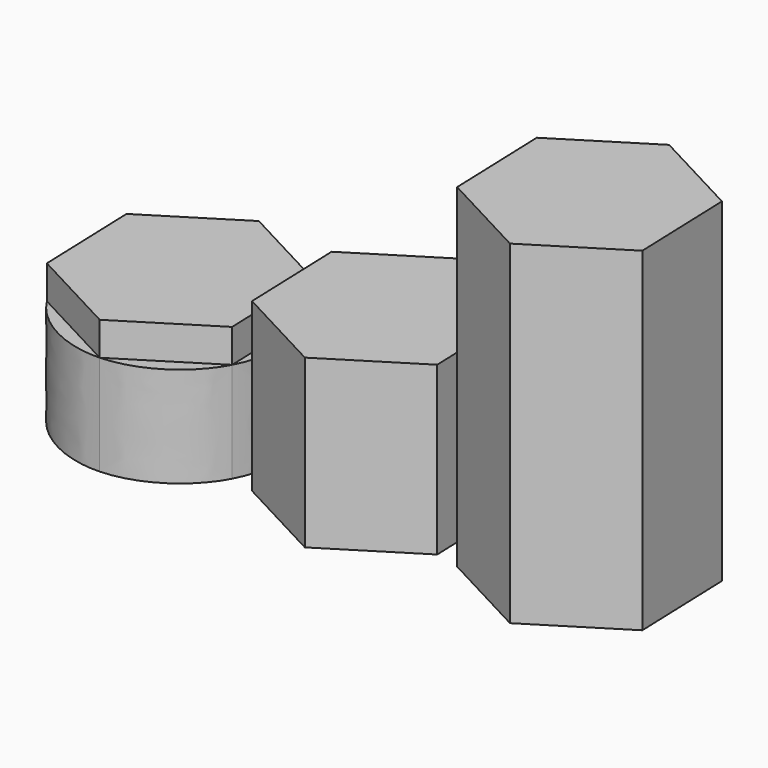
from build123d import *

# Parameters (mm, degrees)
F1_DEPTH = 30
F2_DEPTH = 40
F3_DEPTH = 50
F4_DEPTH = 100


with BuildPart() as f1:
    # F0 (on Top) → F1 (new body)
    with BuildSketch(Plane.XY):
        with BuildLine():
            add(Edge.make_bspline(
                [(-53.7493015469, 37.4896133902), (-58.8132375206, 27.9635762611), (-58.3773133936, 15.5138743345), (-52.6594912293, 6.3653585736)],
                knots=[0.6666666667, 0.6666666667, 0.6666666667, 0.6666666667, 0.8333333333, 0.8333333333, 0.8333333333, 0.8333333333], degree=3))
            Line((-52.6594912293, 6.3653585736), (-53.7493015469, 37.4896133902))
        make_face()
    extrude(amount=F1_DEPTH)


with BuildPart() as f1b:
    # F0 (on Top) → F1, piece 2 (new body)
    with BuildSketch(Plane.XY):
        with BuildLine():
            Line((-53.7493015469, 37.4896133902), (-27.3398113607, 53.9955442188))
            add(Edge.make_bspline(
                [(-27.3398113607, 53.9955442188), (-38.1215694987, 53.6180228507), (-48.6853655732, 47.0156505192), (-53.7493015469, 37.4896133902)],
                knots=[0.5, 0.5, 0.5, 0.5, 0.6666666667, 0.6666666667, 0.6666666667, 0.6666666667], degree=3))
        make_face()
    extrude(amount=F1_DEPTH)


with BuildPart() as f1c:
    # F0 (on Top) → F1, piece 3 (new body)
    with BuildSketch(Plane.XY):
        with BuildLine():
            Line((-27.3398113607, 53.9955442188), (0.1594891431, 39.3772202309))
            add(Edge.make_bspline(
                [(0.1594891431, 39.3772202309), (-5.5583330212, 48.5257359918), (-16.5580532227, 54.373065587), (-27.3398113607, 53.9955442188)],
                knots=[0.3333333333, 0.3333333333, 0.3333333333, 0.3333333333, 0.5, 0.5, 0.5, 0.5], degree=3))
        make_face()
    extrude(amount=F1_DEPTH)


with BuildPart() as f1d:
    # F0 (on Top) → F1, piece 4 (new body)
    with BuildSketch(Plane.XY):
        with BuildLine():
            Line((0.1594891431, 39.3772202309), (1.2492994608, 8.2529654143))
            add(Edge.make_bspline(
                [(1.2492994608, 8.2529654143), (6.3132354345, 17.7790025434), (5.8773113074, 30.22870447), (0.1594891431, 39.3772202309)],
                knots=[0.1666666667, 0.1666666667, 0.1666666667, 0.1666666667, 0.3333333333, 0.3333333333, 0.3333333333, 0.3333333333], degree=3))
        make_face()
    extrude(amount=F1_DEPTH)


with BuildPart() as f1e:
    # F0 (on Top) → F1, piece 5 (new body)
    with BuildSketch(Plane.XY):
        with BuildLine():
            add(Edge.make_bspline(
                [(-25.1601907254, -8.2529654143), (-14.3784325874, -7.8754440462), (-3.8146365129, -1.2730717147), (1.2492994608, 8.2529654143)],
                knots=[0, 0, 0, 0, 0.1666666667, 0.1666666667, 0.1666666667, 0.1666666667], degree=3))
            Line((1.2492994608, 8.2529654143), (-25.1601907254, -8.2529654143))
        make_face()
    extrude(amount=F1_DEPTH)


with BuildPart() as f1f:
    # F0 (on Top) → F1, piece 6 (new body)
    with BuildSketch(Plane.XY):
        with BuildLine():
            add(Edge.make_bspline(
                [(-52.6594912293, 6.3653585736), (-46.941669065, -2.7831571873), (-35.9419488634, -8.6304867825), (-25.1601907254, -8.2529654143)],
                knots=[0.8333333333, 0.8333333333, 0.8333333333, 0.8333333333, 1, 1, 1, 1], degree=3))
            Line((-25.1601907254, -8.2529654143), (-52.6594912293, 6.3653585736))
        make_face()
    extrude(amount=F1_DEPTH)


with BuildPart() as f2:
    # F0 (on Top) → F2 (new body)
    with BuildSketch(Plane.XY):
        Polygon((-25.1601907254, -8.2529654143), (1.2492994608, 8.2529654143), (0.1594891431, 39.3772202309), (-27.3398113607, 53.9955442188), (-53.7493015469, 37.4896133902), (-52.6594912293, 6.3653585736), align=None)
    extrude(amount=F2_DEPTH)


with BuildPart() as f3:
    # F0 (on Top) → F3 (new body)
    with BuildSketch(Plane.XY):
        Polygon((61.5456291431, 39.3772202309), (34.0463286393, 53.9955442188), (7.6368384531, 37.4896133902), (8.7266487707, 6.3653585736), (36.2259492746, -8.2529654143), (62.6354394608, 8.2529654143), align=None)
    extrude(amount=F3_DEPTH)


with BuildPart() as f4:
    # F0 (on Top) → F4 (new body)
    with BuildSketch(Plane.XY):
        Polygon((122.9317691431, 39.3772202309), (95.4324686393, 53.9955442188), (69.0229784531, 37.4896133902), (70.1127887707, 6.3653585736), (97.6120892746, -8.2529654143), (124.0215794608, 8.2529654143), align=None)
    extrude(amount=F4_DEPTH)


solid = Compound([f1.part, f1b.part, f1c.part, f1d.part, f1e.part, f1f.part, f2.part, f3.part, f4.part])
